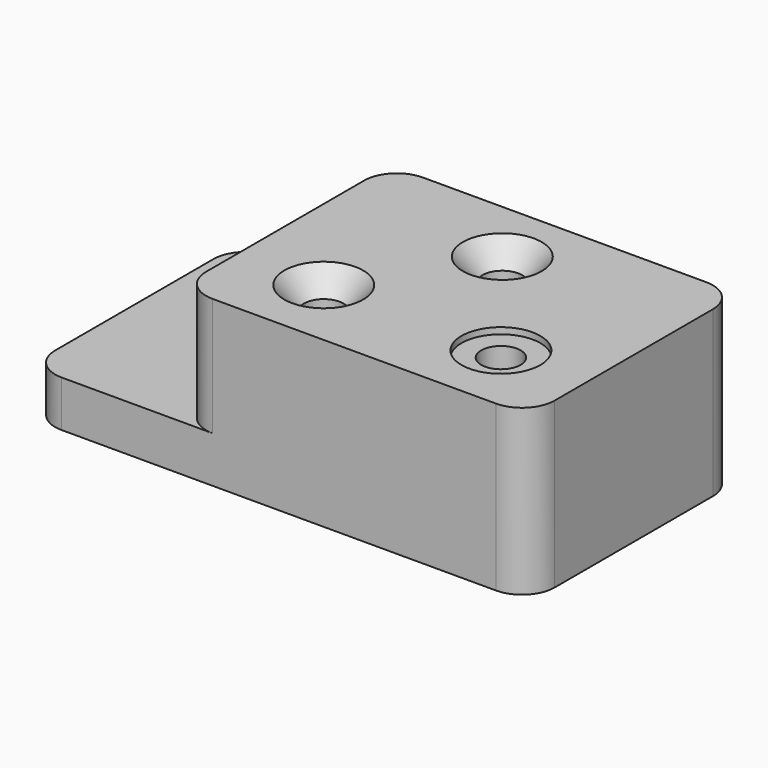
from build123d import *

# Parameters (mm, degrees)
F0_W                 = 168.402
F0_H                 = 127
F1_DEPTH             = 79.502
F0_W_2               = 72.898
F2_DEPTH             = 22.352
F3_R                 = 15.748
F4_R                 = 15.748
F7_D                 = 19.05
F7_CSINK_D           = 38.1
F7_CSINK_ANGLE       = 82
F8_D                 = 19.05
F8_CBORE_D           = 38.1
F8_CBORE_DEPTH       = 3.048
F8_ON_F6_D           = 19.05
F8_ON_F6_CBORE_D     = 38.1
F8_ON_F6_CBORE_DEPTH = 3.048


with BuildPart() as f1:
    # F0 (on Top) → F1 (new body)
    with BuildSketch(Plane.XY):
        with Locations((84.201, 63.5)):
            Rectangle(F0_W, F0_H)
    extrude(amount=F1_DEPTH)

    # F0 (on Top) → F2 (join)
    with BuildSketch(Plane.XY):
        with Locations((84.201, 63.5)):
            Rectangle(F0_W, F0_H)
        with Locations((-36.449, 63.5)):
            Rectangle(F0_W_2, F0_H)
    extrude(amount=F2_DEPTH)

    # F3
    f3_edges = [f1.edges().sort_by_distance(p)[0] for p in [
        (168.402, 0, 39.751),
        (168.402, 127, 39.751),
        (0, 0, 50.927),
        (0, 127, 50.927),
    ]]
    fillet(f3_edges, radius=F3_R)

    # F4
    f4_edges = [f1.edges().sort_by_distance(p)[0] for p in [
        (-72.898, 127, 11.176),
        (-72.898, 0, 11.176),
    ]]
    fillet(f4_edges, radius=F4_R)

    # F7 (through all)
    with Locations(Plane.XY.offset(79.502)):
        with Locations((79.502, 95.25), (41.402, 35.052)):
            CounterSinkHole(F7_D / 2, F7_CSINK_D / 2, counter_sink_angle=F7_CSINK_ANGLE)

    # F8 (through all)
    with Locations(Plane.XY.offset(79.502)):
        with Locations((127, 35.052)):
            CounterBoreHole(F8_D / 2, F8_CBORE_D / 2, F8_CBORE_DEPTH)

    # F8 on F6 (through all)
    with Locations(Plane.XY.offset(22.352)):
        with Locations((-37.846, 95.25)):
            CounterBoreHole(F8_ON_F6_D / 2, F8_ON_F6_CBORE_D / 2, F8_ON_F6_CBORE_DEPTH)


solid = f1.part
